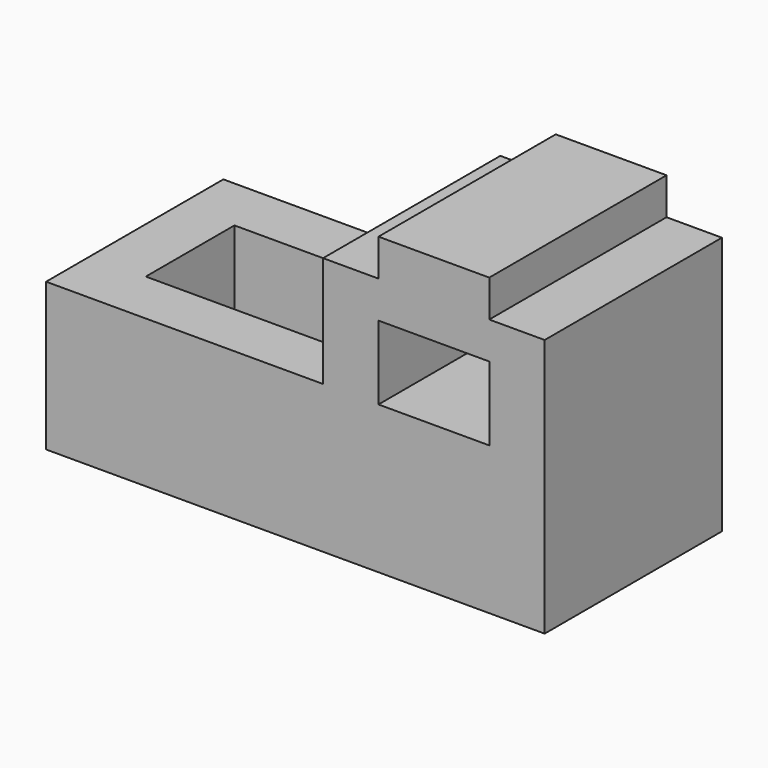
from build123d import *

# Parameters (mm, degrees)
F0_W     = 609.6
F0_H     = 406.4
F1_DEPTH = 1219.2
F2_W     = 1219.2
F2_H     = 609.6
F3_DEPTH = 609.6


with BuildPart() as f1:
    # F0 (on Front) → F1 (new body)
    with BuildSketch(Plane.XZ):
        Polygon((0, 812.8), (0, 0), (2743.2, 0), (2743.2, 1422.4), (2438.4, 1422.4), (2438.4, 1625.6), (1828.8, 1625.6), (1828.8, 1422.4), (1524, 1422.4), (1524, 812.8), align=None)
        with Locations((2133.6, 1016)):
            Rectangle(F0_W, F0_H, mode=Mode.SUBTRACT)
    extrude(amount=F1_DEPTH)

    # F2 (on face) → F3 (cut)
    with BuildSketch(Plane.XY.offset(812.8)):
        with Locations((914.4, -609.6)):
            Rectangle(F2_W, F2_H)
    extrude(amount=-F3_DEPTH, mode=Mode.SUBTRACT)


solid = f1.part
